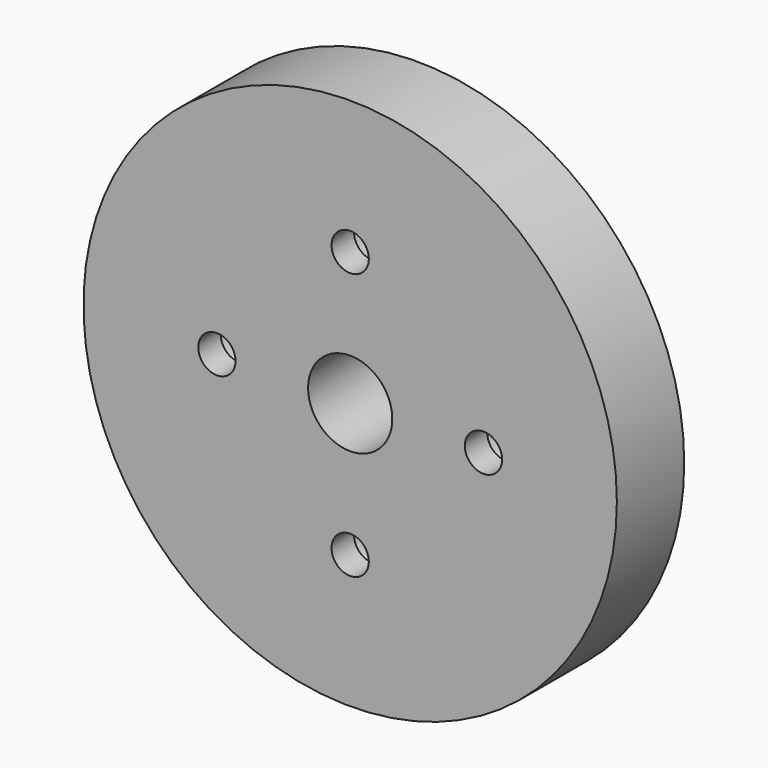
from build123d import *

# Parameters (mm, degrees)
F0_R           = 60.325
F1_DEPTH       = 19.05
F3_D           = 8.4328
F3_CBORE_D     = 15.875
F3_CBORE_DEPTH = 12.7
F4_R           = 9.525
F5_DEPTH       = 25.4


with BuildPart() as f1:
    # F0 (on Front) → F1 (new body)
    with BuildSketch(Plane.XZ):
        Circle(F0_R)
    extrude(amount=-F1_DEPTH)

    # F3 (through all)
    with Locations(Plane(origin=(0, 19.05, 0), x_dir=(-1, 0, 0), z_dir=(0, 1, 0))):
        with Locations((0, 30.1498), (30.1498, 0), (0, -30.1498), (-30.1498, 0)):
            CounterBoreHole(F3_D / 2, F3_CBORE_D / 2, F3_CBORE_DEPTH)

    # F4 (on face) → F5 (cut)
    with BuildSketch(Plane(origin=(0, 19.05, 0), x_dir=(-1, 0, 0), z_dir=(0, 1, 0))):
        Circle(F4_R)
    extrude(amount=-F5_DEPTH, mode=Mode.SUBTRACT)


solid = f1.part
